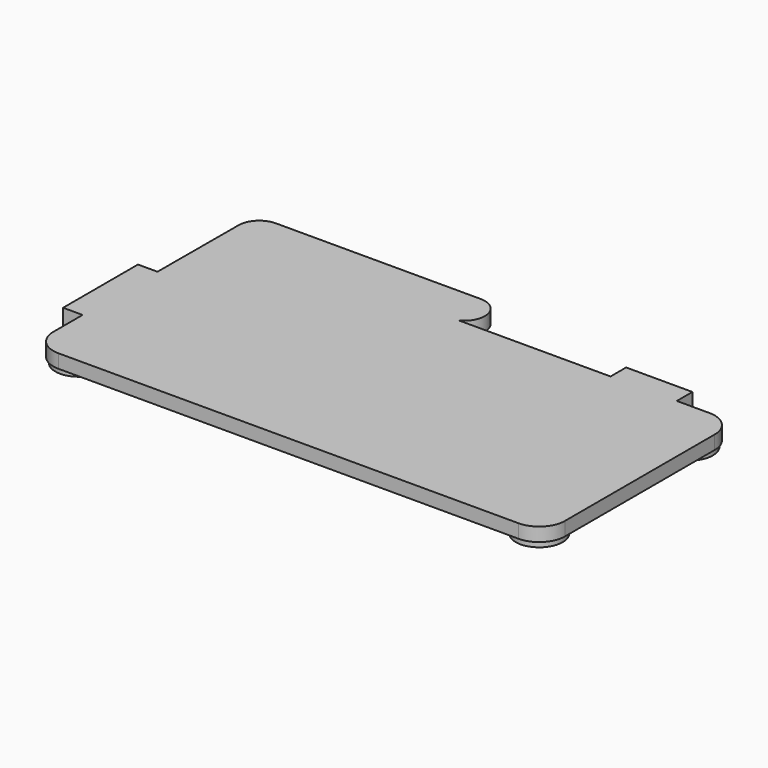
from build123d import *

# Parameters (mm, degrees)
F1_DEPTH = 1.75
F2_W     = 8.5
F2_H     = 2.5
F2_W_2   = 2.5
F2_H_2   = 12
F3_DEPTH = 1.75
F4_R     = 3
F5_DEPTH = 0.75


with BuildPart() as f1:
    # F0 (on Top) → F1 (new body)
    with BuildSketch(Plane.XY):
        with BuildLine():
            Line((-29.301108, -0.113589), (-29.301108, -16.636517))
            ThreePointArc((-29.301108, -16.636517), (-28.33456, -18.96997), (-26.001107, -19.936517))
            Line((-26.001107, -19.936517), (32.998893, -19.936517))
            ThreePointArc((32.998893, -19.936517), (35.332345, -18.96997), (36.298893, -16.636517))
            Line((36.298893, -16.636517), (36.298893, 7.363483))
            ThreePointArc((36.298893, 7.363483), (35.332345, 9.696936), (32.998893, 10.663484))
            Line((32.998893, 10.663484), (0.87364, 10.663484))
            ThreePointArc((0.87364, 10.663484), (2.222801, 13.64396), (-0.351107, 15.663484))
            Line((-0.351107, 15.663484), (-26.610989, 15.663484))
            ThreePointArc((-26.610989, 15.663484), (-28.481957, 14.890177), (-29.260977, 13.021579))
            Line((-29.260977, 13.021579), (-29.301108, -0.113589))
        make_face()
    extrude(amount=F1_DEPTH)

    # F2 (on face) → F3 (join, symmetric)
    with BuildSketch(Plane(origin=(0, 0, 0), x_dir=(1, 0, 0), z_dir=(0, 0, -1))):
        with Locations((24.548893, -11.913484)):
            Rectangle(F2_W, F2_H)
        with Locations((-30.550567, 5.936517)):
            Rectangle(F2_W_2, F2_H_2)
    extrude(amount=F3_DEPTH, both=True)

    # F4 (on face) → F5 (join)
    with BuildSketch(Plane.XY):
        with Locations((33.000201, -16.640954)):
            Circle(F4_R)
        with Locations((33.000201, 7.443574)):
            Circle(F4_R)
        with Locations((-26.091952, -16.551422)):
            Circle(F4_R)
        with Locations((-26.181484, 6.906373)):
            Circle(F4_R)
    extrude(amount=-F5_DEPTH)


solid = f1.part
